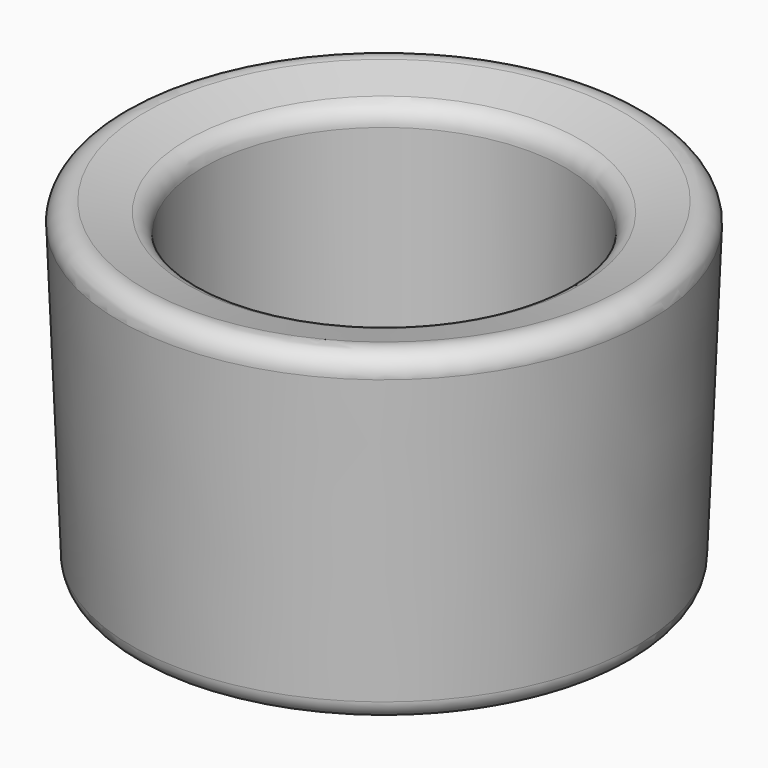
from build123d import *


with BuildPart() as f1:
    # F0 (on Right) → F1 (revolve)
    with BuildSketch(Plane.YZ):
        with BuildLine():
            ThreePointArc((-35.643776, 49.074506), (-38.247983, 48.47563), (-39.341498, 46.03744))
            Line((-39.341498, 46.03744), (-37.615204, 2.880096))
            ThreePointArc((-37.615204, 2.880096), (-36.696097, 0.836702), (-34.617601, 0))
            Line((-34.617601, 0), (0, 0))
            Line((0, 0), (0, 3))
            Line((0, 3), (-25, 3))
            ThreePointArc((-25, 3), (-26.414214, 3.585786), (-27, 5))
            Line((-27, 5), (-27, 44.63481))
            ThreePointArc((-27, 44.63481), (-27.644118, 46.492179), (-29.299881, 47.551971))
            Line((-29.299881, 47.551971), (-35.643776, 49.074506))
        make_face()
    revolve(axis=Axis((0, 0, 1.5), (0, 0, 1)))


solid = f1.part
